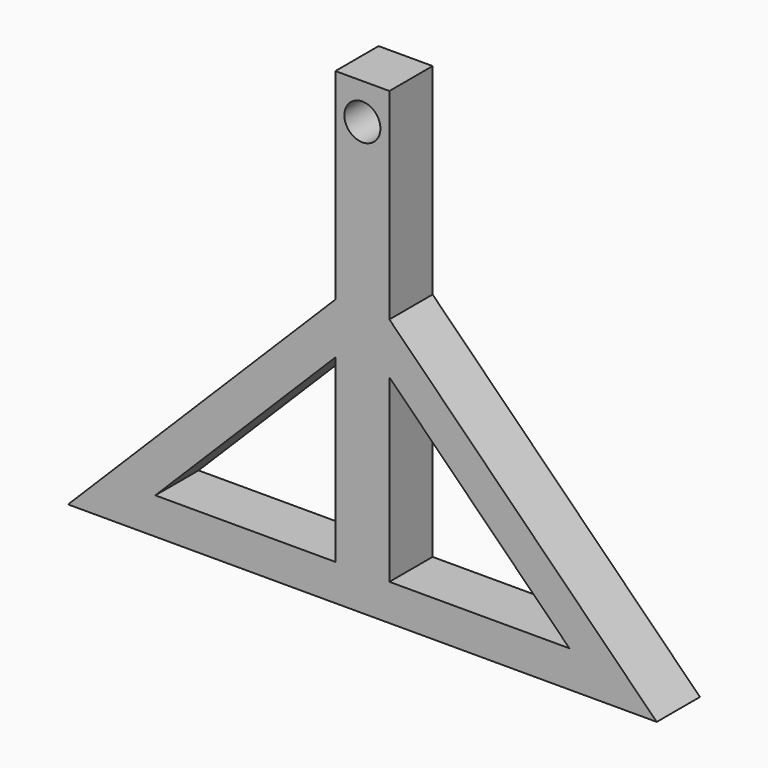
from build123d import *

# Parameters (mm, degrees)
F0_R     = 5
F1_DEPTH = 15


with BuildPart() as f1:
    # F0 (on Front) → F1 (new body)
    with BuildSketch(Plane.XZ):
        Polygon((0, 60.104076), (0, 74.246212), (-74.246212, 0), (-60.104076, 0), (-50, 10.104076), align=None)
        Polygon((0, 130.104076), (0, 74.246212), (0, 60.104076), (0, 10.104076), (15, 10.104076), (15, 60.104076), (15, 74.246212), (15, 130.104076), align=None)
        with Locations((7.5, 120.104076)):
            Circle(F0_R, mode=Mode.SUBTRACT)
        Polygon((-50, 10.104076), (-60.104076, 0), (75.104076, 0), (65, 10.104076), (15, 10.104076), (0, 10.104076), align=None)
        Polygon((65, 10.104076), (75.104076, 0), (89.246212, 0), (15, 74.246212), (15, 60.104076), align=None)
    extrude(amount=F1_DEPTH)


solid = f1.part
